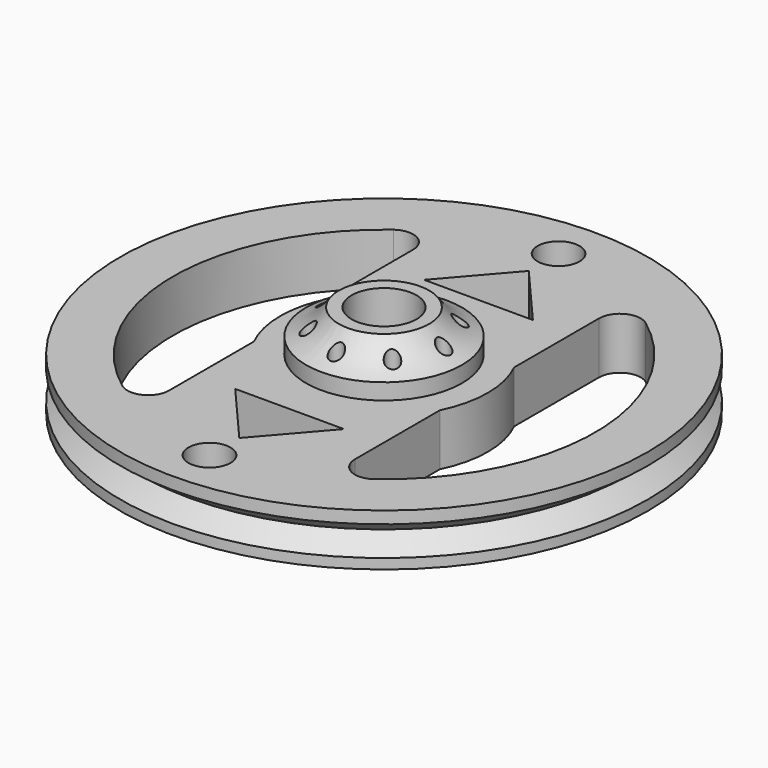
from build123d import *

# Parameters (mm, degrees)
F0_R      = 25.4
F0_R_2    = 3.125
F1_DEPTH  = 5
F2_R      = 7.5
F2_R_2    = 3.125
F3_DEPTH  = 4
F4_R      = 6.096
F6_R      = 2.020962
F7_DEPTH  = 5.001
F10_R     = 0.662213
F11_DEPTH = 9.001


with BuildPart() as f1:
    # F0 (on Top) → F1 (new body)
    with BuildSketch(Plane.XY):
        Circle(F0_R)
        with BuildLine():
            Line((-8.950036, 14.687379), (-8.950036, 4.46059))
            ThreePointArc((-8.950036, 4.46059), (-10, 0), (-8.950036, -4.46059))
            Line((-8.950036, -4.46059), (-8.950036, -14.687379))
            ThreePointArc((-8.950036, -14.687379), (-10.053051, -16.474953), (-12.145455, -16.290805))
            ThreePointArc((-12.145455, -16.290805), (-20.32, 0), (-12.145455, 16.290805))
            ThreePointArc((-12.145455, 16.290805), (-10.053051, 16.474953), (-8.950036, 14.687379))
        make_face(mode=Mode.SUBTRACT)
        Circle(F0_R_2, mode=Mode.SUBTRACT)
        with BuildLine():
            Line((8.950036, 4.46059), (8.950036, 14.687379))
            ThreePointArc((8.950036, 14.687379), (10.053051, 16.474953), (12.145455, 16.290805))
            ThreePointArc((12.145455, 16.290805), (20.32, 0), (12.145455, -16.290805))
            ThreePointArc((12.145455, -16.290805), (10.053051, -16.474953), (8.950036, -14.687379))
            Line((8.950036, -14.687379), (8.950036, -4.46059))
            ThreePointArc((8.950036, -4.46059), (10, 0), (8.950036, 4.46059))
        make_face(mode=Mode.SUBTRACT)
    extrude(amount=F1_DEPTH)

    # F2 (on face) → F3 (join)
    with BuildSketch(Plane.XY.offset(5)):
        Circle(F2_R)
        Circle(F2_R_2, mode=Mode.SUBTRACT)
    extrude(amount=F3_DEPTH)

    # F4 (on Front) → F5 (revolve, cut)
    with BuildSketch(Plane.XZ):
        with Locations((-9.469913, 12.312098)):
            Circle(F4_R)
    revolve(axis=Axis((0, 0, 5.050069), (0, 0, -1)), mode=Mode.SUBTRACT)

    # F6 (on face) → F7 (cut, through all)
    with BuildSketch(Plane.XY.offset(5)):
        Polygon((-5.234685, 11.362989), (0, 11.362989), (0, 17.41166), align=None)
        Polygon((0, 17.41166), (0, 11.362989), (5.234685, 11.362989), align=None)
        Polygon((0, -11.362989), (-5.234685, -11.362989), (0, -17.41166), (5.234685, -11.362989), align=None)
        with Locations((0, 20.997725)):
            Circle(F6_R)
        with Locations((0, -20.997725)):
            Circle(F6_R)
    extrude(amount=-F7_DEPTH, mode=Mode.SUBTRACT)

    # F8 (on Front) → F9 (revolve, cut)
    with BuildSketch(Plane.XZ):
        Polygon((-25.495, 3.902024), (-25.495, 2.402024), (-23.495, 2.402024), align=None)
        Polygon((-23.495, 2.402024), (-25.495, 2.402024), (-25.495, 0.902024), align=None)
    revolve(axis=Axis((0, 0, 20.538263), (0, 0, -1)), mode=Mode.SUBTRACT)

    # F10 (on face) → F11 (cut, through all)
    with BuildSketch(Plane.XY):
        with Locations((0, 5.743192)):
            Circle(F10_R)
        with Locations((-4.06105, 4.06105)):
            Circle(F10_R)
        with Locations((-5.743192, 0)):
            Circle(F10_R)
        with Locations((-4.06105, -4.06105)):
            Circle(F10_R)
        with Locations((0, -5.743192)):
            Circle(F10_R)
        with Locations((4.06105, -4.06105)):
            Circle(F10_R)
        with Locations((5.743192, 0)):
            Circle(F10_R)
        with Locations((4.06105, 4.06105)):
            Circle(F10_R)
    extrude(amount=F11_DEPTH, mode=Mode.SUBTRACT)


solid = f1.part
